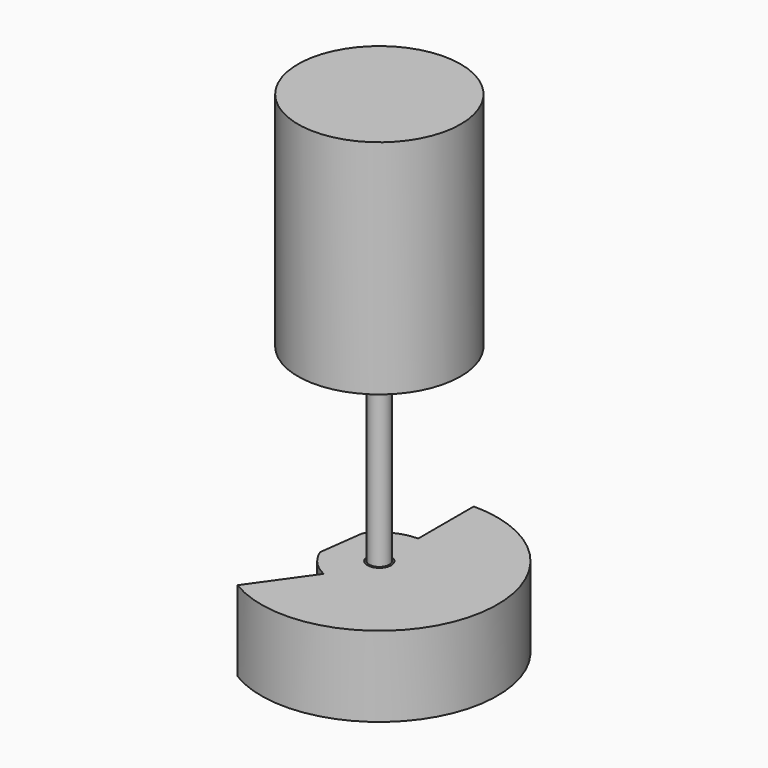
from build123d import *

# Parameters (mm, degrees)
F0_R     = 2.5
F1_DEPTH = 17
F2_R     = 2.1183628734
F3_DEPTH = 40
F4_R     = 17.2283151163
F4_R_2   = 2.1183628734
F5_DEPTH = 47
F6_R     = 1.5843133583
F7_DEPTH = 7.1394056178


with BuildPart() as f1:
    # F0 (on Top) → F1 (new body)
    with BuildSketch(Plane.XY):
        with BuildLine():
            Line((-4.3080339444, -9.3356588295), (-12.8947155097, -21.4178970005))
            ThreePointArc((-12.8947155097, -21.4178970005), (24.0878332879, -6.6915086112), (0, 25))
            Line((0, 25), (0, 10.2817159194))
            ThreePointArc((0, 10.2817159194), (-4.7143324855, 9.1372179279), (-8.3791234153, 5.9585210444))
            Line((-8.3791234153, 5.9585210444), (-9.6165060123, -3.6381993296))
            ThreePointArc((-9.6165060123, -3.6381993296), (-7.5225304545, -7.0089384223), (-4.3080339444, -9.3356588295))
        make_face()
        Circle(F0_R, mode=Mode.SUBTRACT)
    extrude(amount=F1_DEPTH)

    # F6 (on face) → F7 (cut, through all)
    with BuildSketch(Plane(origin=(-8.9978147138, 1.1601608574, 0), x_dir=(-0.1278794515, -0.9917897186, 0), z_dir=(-0.9917897186, 0.1278794515, 0))):
        with Locations((0, 8.1106387079)):
            Circle(F6_R)
    extrude(amount=-F7_DEPTH, mode=Mode.SUBTRACT)


with BuildPart() as f3:
    # F2 (on face) → F3 (new body)
    with BuildSketch(Plane.XY.offset(17)):
        Circle(F2_R)
    extrude(amount=F3_DEPTH)

    # F4 (on face) → F5 (join)
    with BuildSketch(Plane.XY.offset(57)):
        Circle(F4_R)
        Circle(F4_R_2, mode=Mode.SUBTRACT)
        Circle(F4_R_2)
    extrude(amount=F5_DEPTH)


solid = Compound([f1.part, f3.part])
